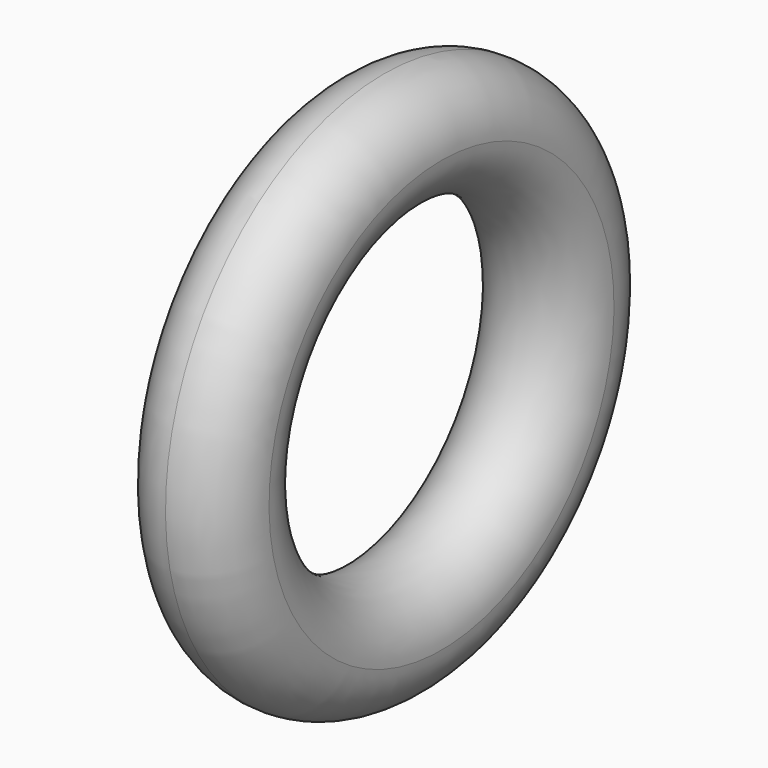
from build123d import *


with BuildPart() as f1:
    # F0 (on Front) → F1 (revolve)
    with BuildSketch(Plane.XZ):
        with BuildLine():
            ThreePointArc((-1.2, 4.5), (0, 3.3), (1.2, 4.5))
            ThreePointArc((1.2, 4.5), (0.848528, 5.348528), (0, 5.7))
            ThreePointArc((0, 5.7), (-0.848528, 5.348528), (-1.2, 4.5))
        make_face()
    revolve(axis=Axis((0, 0, 0), (1, 0, 0)))


solid = f1.part
